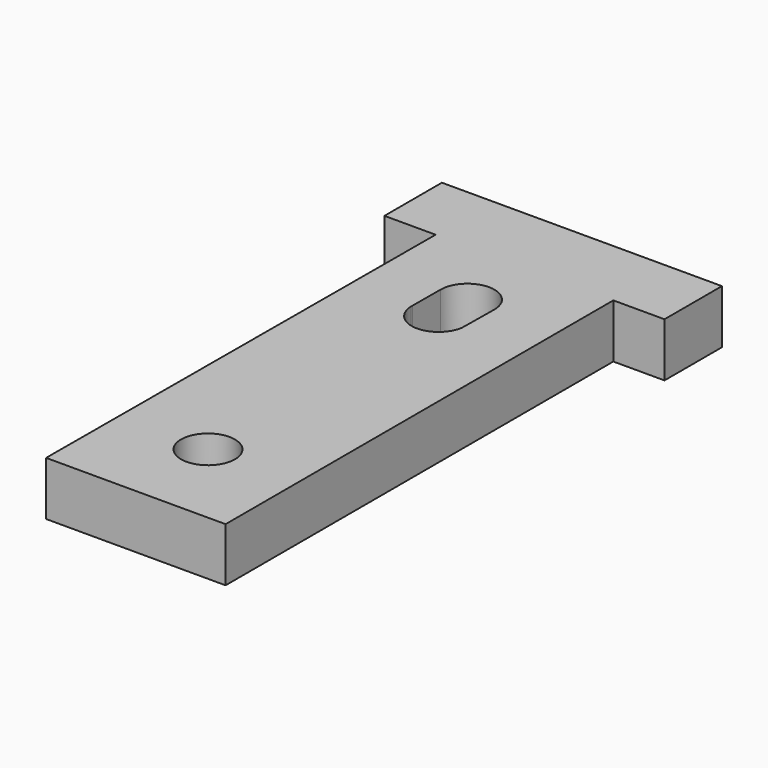
from build123d import *

# Parameters (mm, degrees)
F1_DEPTH = 3
F2_R     = 1.5
F3_DEPTH = 3.001


with BuildPart() as f1:
    # F0 (on Top) → F1 (new body)
    with BuildSketch(Plane.XY):
        Polygon((-13.195418, -19.596273), (-3.195418, -19.596273), (-3.195418, 7.403542), (-0.345418, 7.403542), (-0.345418, 11.403542), (-15.945418, 11.403542), (-15.945418, 7.403542), (-13.095418, 7.403542), align=None)
    extrude(amount=F1_DEPTH)

    # F2 (on face) → F3 (cut, through all)
    with BuildSketch(Plane.XY.offset(3)):
        with BuildLine():
            Line((-9.695418, 3.499953), (-9.706427, 1.549641))
            Line((-9.706427, 1.549641), (-9.706892, 1.467193))
            ThreePointArc((-9.706892, 1.467193), (-8.307444, 0.003303), (-6.725357, 1.267591))
            Line((-6.725357, 1.267591), (-6.695629, 3.474782))
            ThreePointArc((-6.695629, 3.474782), (-8.182832, 4.999901), (-9.695418, 3.499953))
        make_face()
        with Locations((-8.195418, -14.570472)):
            Circle(F2_R)
    extrude(amount=-F3_DEPTH, mode=Mode.SUBTRACT)


solid = f1.part
